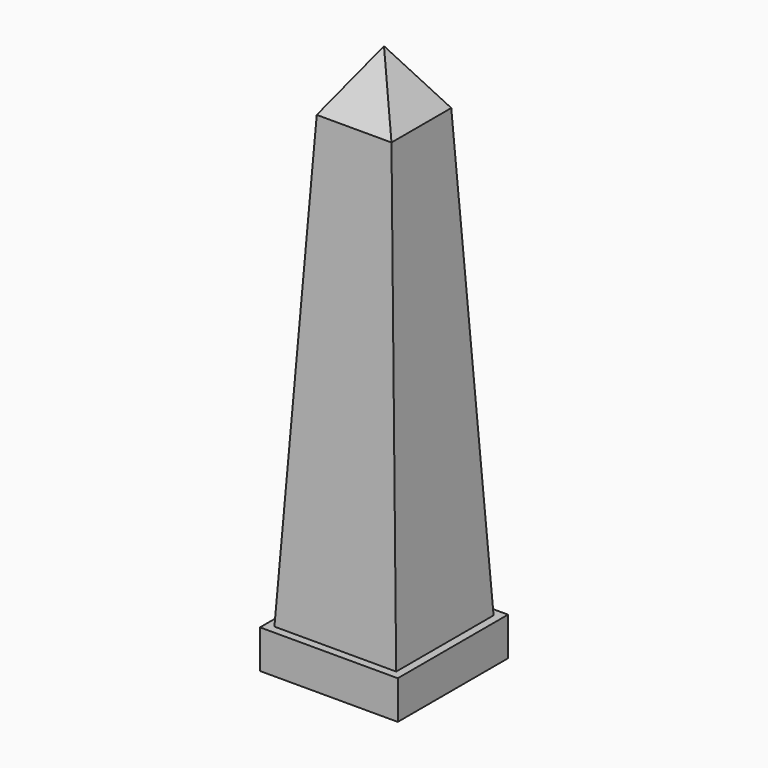
from build123d import *

# Parameters (mm, degrees)
F0_W     = 546.1
F0_H     = 546.1
F1_DEPTH = 152.4
F2_W     = 482.6
F2_H     = 482.6
F3_DEPTH = 1778
F3_TAPER = 3
F4_W     = 296.2379368695
F4_H     = 296.2379368695
F5_DEPTH = 241.3
F5_TAPER = 33


with BuildPart() as f1:
    # F0 (on Top) → F1 (new body)
    with BuildSketch(Plane.XY):
        with Locations((-51.5293031931, 57.3979665157)):
            Rectangle(F0_W, F0_H)
    extrude(amount=F1_DEPTH)

    # F2 (on face) → F3 (join)
    with BuildSketch(Plane.XY.offset(152.4)):
        with Locations((-51.5293031931, 57.3979665157)):
            Rectangle(F2_W, F2_H)
    extrude(amount=F3_DEPTH, taper=F3_TAPER)

    # F4 (on face) → F5 (join)
    with BuildSketch(Plane.XY.offset(1930.4)):
        with Locations((-51.5293031931, 57.3979665157)):
            Rectangle(F4_W, F4_H)
    extrude(amount=F5_DEPTH, taper=F5_TAPER)


solid = f1.part
